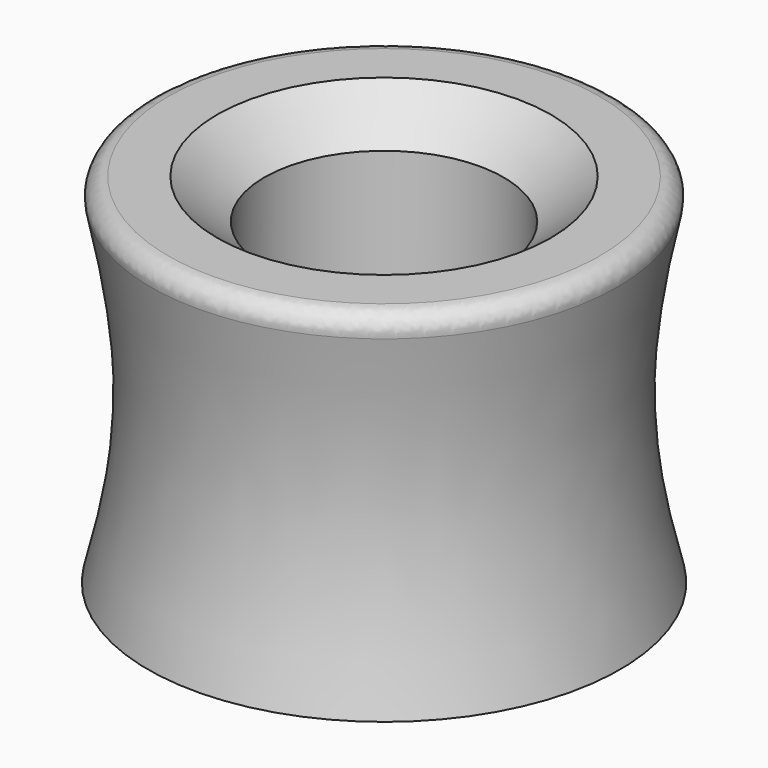
from build123d import *

# Parameters (mm, degrees)
F2_R = 2


with BuildPart() as f1:
    # F0 (on Front) → F1 (revolve)
    with BuildSketch(Plane.XZ):
        with BuildLine():
            Line((-26.4122755203, -12.0164136617), (-13.3890202269, -12.0164136617))
            Line((-13.3890202269, -12.0164136617), (-13.3890202269, 23.5225483775))
            Line((-13.3890202269, 23.5225483775), (-18.6761766672, 27.9844968208))
            Line((-18.6761766672, 27.9844968208), (-26.666665734, 27.9844968208))
            add(Edge.make_bspline(
                [(-26.666665734, 27.9844968208), (-24.955378966, 20.8518752971), (-22.4382795274, 7.177334093), (-24.7487914574, -5.8071066778), (-26.4122755203, -12.0164136617)],
                knots=[0, 0, 0, 0, 0.5118692466, 1, 1, 1, 1], degree=3))
        make_face()
    revolve(axis=Axis((0, 0, 15.41584597), (0, 0, -1)))

    # F2
    f2_edges = [f1.edges().sort_by_distance(p)[0] for p in [
        (26.666666, 0, 27.984497),
    ]]
    fillet(f2_edges, radius=F2_R)


solid = f1.part
